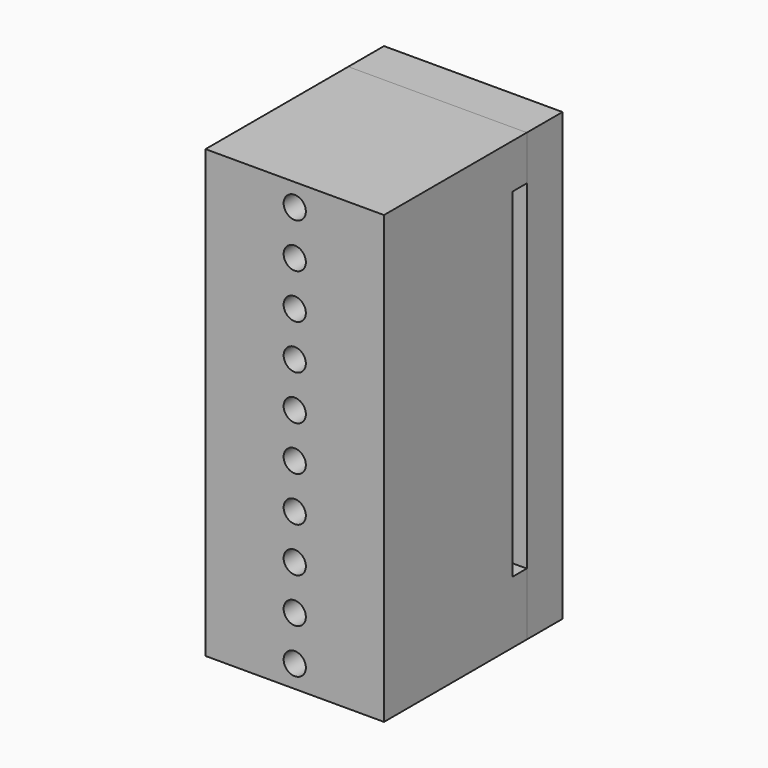
from build123d import *

# Parameters (mm, degrees)
F0_W     = 20
F0_H     = 20
F1_DEPTH = 50
F2_W     = 20
F2_H     = 38
F3_DEPTH = 2
F4_R     = 4
F5_DEPTH = 8
F6_W     = 20
F6_H     = 50
F7_DEPTH = 5
F8_R     = 1.244435
F9_DEPTH = 25.001


with BuildPart() as f1:
    # F0 (on Top) → F1 (new body)
    with BuildSketch(Plane.XY):
        Rectangle(F0_W, F0_H)
    extrude(amount=F1_DEPTH)

    # F2 (on face) → F3 (cut)
    with BuildSketch(Plane(origin=(0, 10, 0), x_dir=(-1, 0, 0), z_dir=(0, 1, 0))):
        with Locations((0, 26)):
            Rectangle(F2_W, F2_H)
    extrude(amount=-F3_DEPTH, mode=Mode.SUBTRACT)

    # F4 (on face) → F5 (cut)
    with BuildSketch(Plane(origin=(0, 0, 0), x_dir=(1, 0, 0), z_dir=(0, 0, -1))):
        Circle(F4_R)
    extrude(amount=-F5_DEPTH, mode=Mode.SUBTRACT)


with BuildPart() as f7:
    # F6 (on face) → F7 (new body)
    with BuildSketch(Plane(origin=(0, 10, 0), x_dir=(-1, 0, 0), z_dir=(0, 1, 0))):
        with Locations((0, 25)):
            Rectangle(F6_W, F6_H)
    extrude(amount=F7_DEPTH)


with BuildPart() as f9_tool:
    # F8 (on face) → F9 (new body, through all)
    with BuildSketch(Plane(origin=(0, 15, 0), x_dir=(-1, 0, 0), z_dir=(0, 1, 0))):
        with Locations((0, 47.5)):
            Circle(F8_R)
        with Locations((0, 42.5)):
            Circle(F8_R)
        with Locations((0, 37.5)):
            Circle(F8_R)
        with Locations((0, 32.5)):
            Circle(F8_R)
        with Locations((0, 27.5)):
            Circle(F8_R)
        with Locations((0, 22.5)):
            Circle(F8_R)
        with Locations((0, 17.5)):
            Circle(F8_R)
        with Locations((0, 12.5)):
            Circle(F8_R)
        with Locations((0, 7.5)):
            Circle(F8_R)
        with Locations((0, 2.5)):
            Circle(F8_R)
    extrude(amount=-F9_DEPTH)


with BuildPart() as f1_1:
    add(f1.part)

    # F9: cut by f9_tool
    add(f9_tool.part, mode=Mode.SUBTRACT)


with BuildPart() as f7_1:
    add(f7.part)

    # F9: cut by f9_tool
    add(f9_tool.part, mode=Mode.SUBTRACT)


solid = Compound([f1_1.part, f7_1.part])
